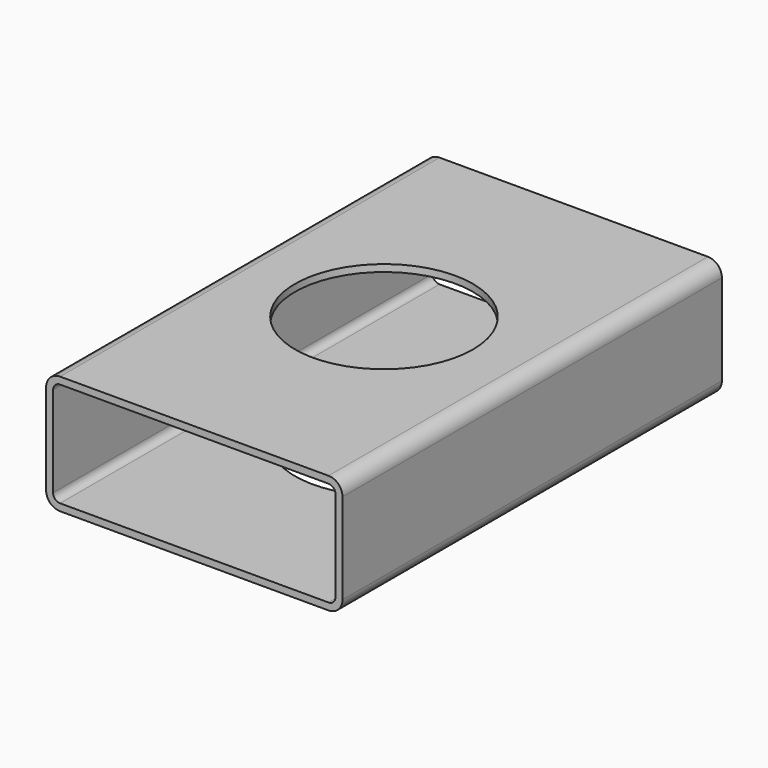
from build123d import *

# Parameters (mm, degrees)
F1_DEPTH = 203.2
F2_R     = 38.1
F3_DEPTH = 50.801


with BuildPart() as f1:
    # F0 (on Front) → F1 (new body)
    with BuildSketch(Plane.XZ):
        with BuildLine():
            Line((-57.5, -25.4), (57.5, -25.4))
            ThreePointArc((57.5, -25.4), (61.742641, -23.642641), (63.5, -19.4))
            Line((63.5, -19.4), (63.5, 19.4))
            ThreePointArc((63.5, 19.4), (61.742641, 23.642641), (57.5, 25.4))
            Line((57.5, 25.4), (-57.5, 25.4))
            ThreePointArc((-57.5, 25.4), (-61.742641, 23.642641), (-63.5, 19.4))
            Line((-63.5, 19.4), (-63.5, -19.4))
            ThreePointArc((-63.5, -19.4), (-61.742641, -23.642641), (-57.5, -25.4))
        make_face()
        with BuildLine():
            ThreePointArc((60.5, -19.4), (59.62132, -21.52132), (57.5, -22.4))
            Line((57.5, -22.4), (-57.5, -22.4))
            ThreePointArc((-57.5, -22.4), (-59.62132, -21.52132), (-60.5, -19.4))
            Line((-60.5, -19.4), (-60.5, 19.4))
            ThreePointArc((-60.5, 19.4), (-59.62132, 21.52132), (-57.5, 22.4))
            Line((-57.5, 22.4), (57.5, 22.4))
            ThreePointArc((57.5, 22.4), (59.62132, 21.52132), (60.5, 19.4))
            Line((60.5, 19.4), (60.5, -19.4))
        make_face(mode=Mode.SUBTRACT)
    extrude(amount=F1_DEPTH)

    # F2 (on face) → F3 (cut, through all)
    with BuildSketch(Plane.XY.offset(25.4)):
        with Locations((0, -101.6)):
            Circle(F2_R)
    extrude(amount=-F3_DEPTH, mode=Mode.SUBTRACT)


solid = f1.part
